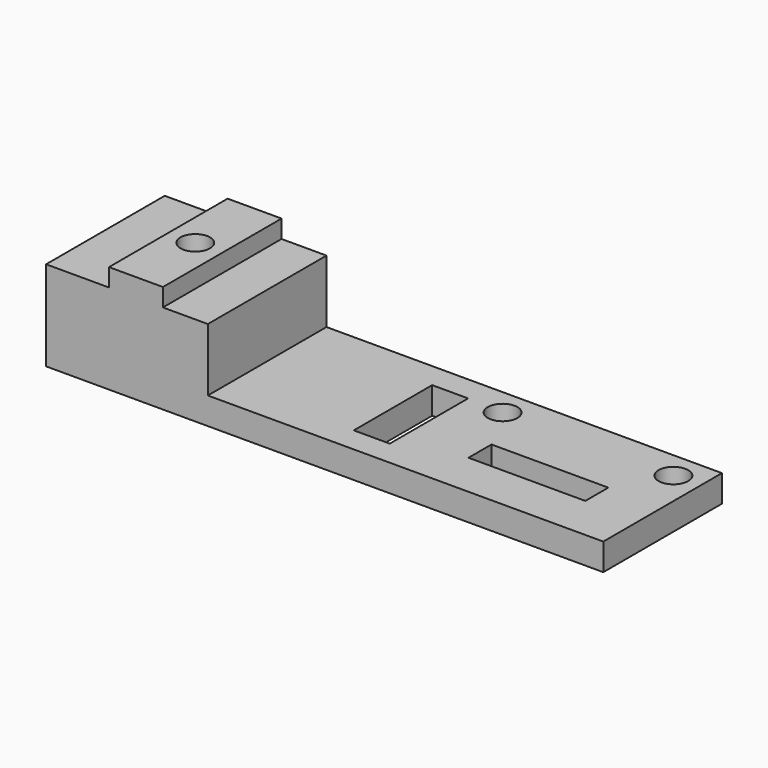
from build123d import *

# Parameters (mm, degrees)
SKETCH050_W     = 62
SKETCH050_H     = 16.5
SKETCH050_R     = 1.65
SKETCH050_W_2   = 13
SKETCH050_H_2   = 3.2
SKETCH050_W_3   = 4
SKETCH050_H_3   = 10.9
PAD010_DEPTH    = 3
SKETCH051_W     = 18
SKETCH051_H     = 16.5
PAD011_DEPTH    = 10
SKETCH052_R     = 1.65
POCKET031_DEPTH = 31.001
SKETCH053_W     = 6
SKETCH053_H     = 16.5
PAD012_DEPTH    = 2
SKETCH054_R     = 1.65
POCKET032_DEPTH = 12.001


with BuildPart() as part:
    # Sketch050 → Pad010 (new body)
    with BuildSketch(Plane.XY):
        Rectangle(SKETCH050_W, SKETCH050_H)
        with Locations((-21, 0)):
            Circle(SKETCH050_R, mode=Mode.SUBTRACT)
        with Locations((28, 5.25)):
            Circle(SKETCH050_R, mode=Mode.SUBTRACT)
        with Locations((9, 5.25)):
            Circle(SKETCH050_R, mode=Mode.SUBTRACT)
        with Locations((18.5, -1.65)):
            Rectangle(SKETCH050_W_2, SKETCH050_H_2, mode=Mode.SUBTRACT)
        with Locations((3, 0)):
            Rectangle(SKETCH050_W_3, SKETCH050_H_3, mode=Mode.SUBTRACT)
    extrude(amount=PAD010_DEPTH)

    # Sketch051 → Pad011 (join)
    with BuildSketch(Plane.XY):
        with Locations((-22, 0)):
            Rectangle(SKETCH051_W, SKETCH051_H)
    extrude(amount=PAD011_DEPTH)

    # Sketch052 → Pocket031 (cut, through all)
    with BuildSketch(Plane.YZ):
        with Locations((0, 13)):
            Circle(SKETCH052_R)
    extrude(amount=-POCKET031_DEPTH, mode=Mode.SUBTRACT)

    # Sketch053 → Pad012 (join)
    with BuildSketch(Plane.XY.offset(10)):
        with Locations((-21, 0)):
            Rectangle(SKETCH053_W, SKETCH053_H)
    extrude(amount=PAD012_DEPTH)

    # Sketch054 → Pocket032 (cut, through all)
    with BuildSketch(Plane.XY):
        with Locations((-21, 0)):
            Circle(SKETCH054_R)
    extrude(amount=POCKET032_DEPTH, mode=Mode.SUBTRACT)


solid = part.part
